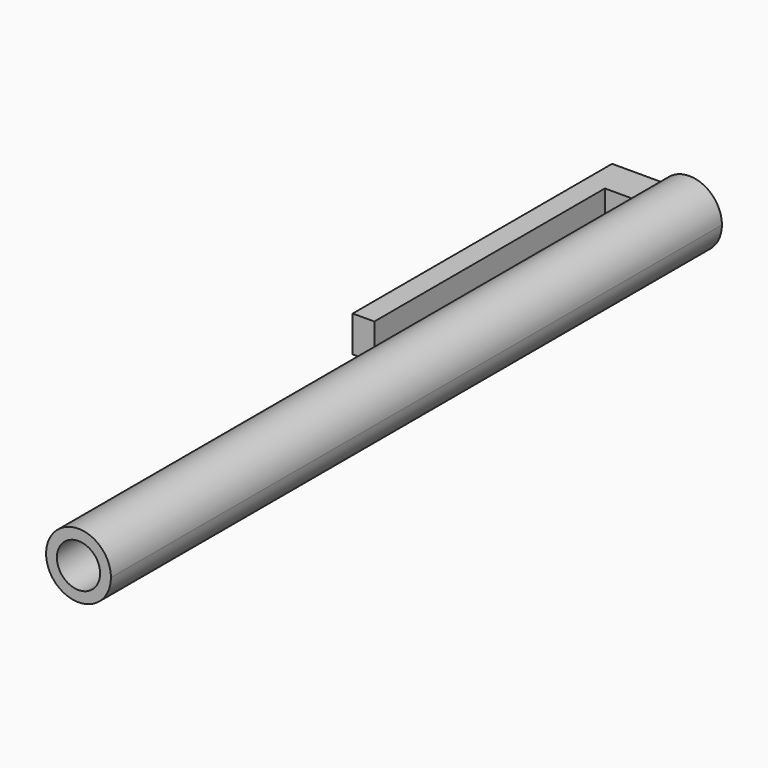
from build123d import *

# Parameters (mm, degrees)
F0_R     = 3
F1_DEPTH = 106
F2_DEPTH = 10
F3_DEPTH = 5
F0_W     = 3
F0_H     = 5
F4_DEPTH = 45


with BuildPart() as f1:
    # F0 (on Front) → F1 (new body)
    with BuildSketch(Plane.XZ):
        with BuildLine():
            ThreePointArc((-3.741657, -2.5), (1.306243, -4.306243), (4.5, 0))
            ThreePointArc((4.5, 0), (1.306243, 4.306243), (-3.741657, 2.5))
            ThreePointArc((-3.741657, 2.5), (-4.5, 0), (-3.741657, -2.5))
        make_face()
        Circle(F0_R, mode=Mode.SUBTRACT)
    extrude(amount=F1_DEPTH)

    # F0 (on Front) → F2 (join)
    with BuildSketch(Plane.XZ):
        Circle(F0_R)
    extrude(amount=F2_DEPTH)

    # F0 (on Front) → F3 (join)
    with BuildSketch(Plane.XZ):
        with BuildLine():
            ThreePointArc((-3.741657, -2.5), (-4.5, 0), (-3.741657, 2.5))
            Line((-3.741657, 2.5), (-7.741657, 2.5))
            Line((-7.741657, 2.5), (-7.741657, -2.5))
            Line((-7.741657, -2.5), (-3.741657, -2.5))
        make_face()
    extrude(amount=F3_DEPTH)

    # F0 (on Front) → F4 (join)
    with BuildSketch(Plane.XZ):
        with Locations((-9.241657, 0)):
            Rectangle(F0_W, F0_H)
    extrude(amount=F4_DEPTH)


solid = f1.part
